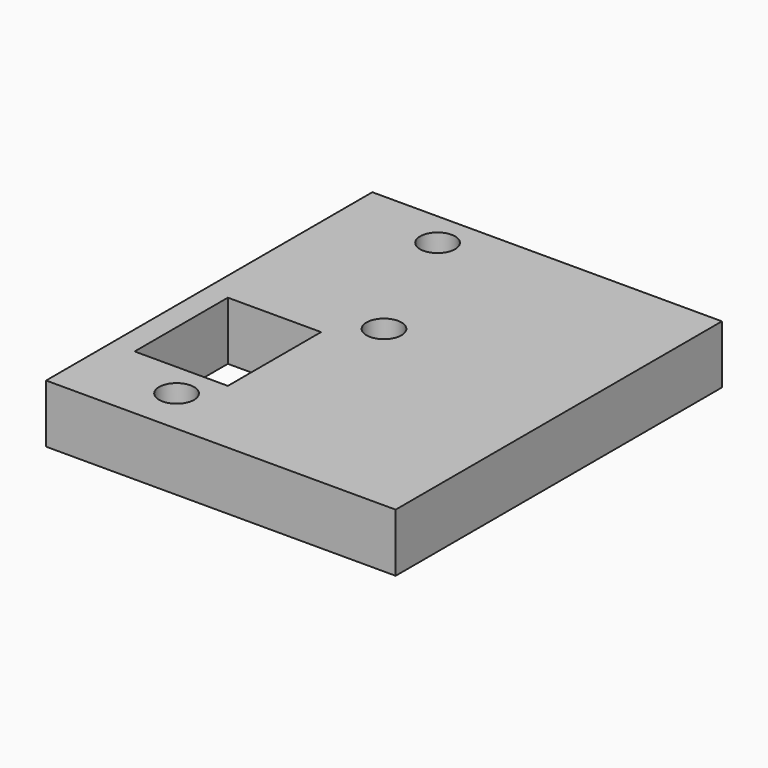
from build123d import *

# Parameters (mm, degrees)
SKETCH_W        = 30
SKETCH_H        = 35
PAD_DEPTH       = 5
SKETCH001_R     = 1.5
SKETCH001_W     = 8
SKETCH001_H     = 10
POCKET_DEPTH    = 5
SKETCH002_R     = 2.5
POCKET001_DEPTH = 2


with BuildPart() as part:
    # Sketch → Pad (new body)
    with BuildSketch(Plane.XY):
        with Locations((15, 17.5)):
            Rectangle(SKETCH_W, SKETCH_H)
    extrude(amount=PAD_DEPTH)

    # Sketch001 → Pocket (cut)
    with BuildSketch(Plane.XY.offset(5)):
        with Locations((8, 32)):
            Circle(SKETCH001_R)
        with Locations((8, 4)):
            Circle(SKETCH001_R)
        with Locations((13, 20)):
            Circle(SKETCH001_R)
        with Locations((6, 12)):
            Rectangle(SKETCH001_W, SKETCH001_H)
    extrude(amount=-POCKET_DEPTH, mode=Mode.SUBTRACT)

    # Sketch002 → Pocket001 (cut)
    with BuildSketch(Plane(origin=(0, 0, 0), x_dir=(1, 0, 0), z_dir=(0, 0, -1))):
        with Locations((13, -20)):
            Circle(SKETCH002_R)
    extrude(amount=-POCKET001_DEPTH, mode=Mode.SUBTRACT)


solid = part.part
